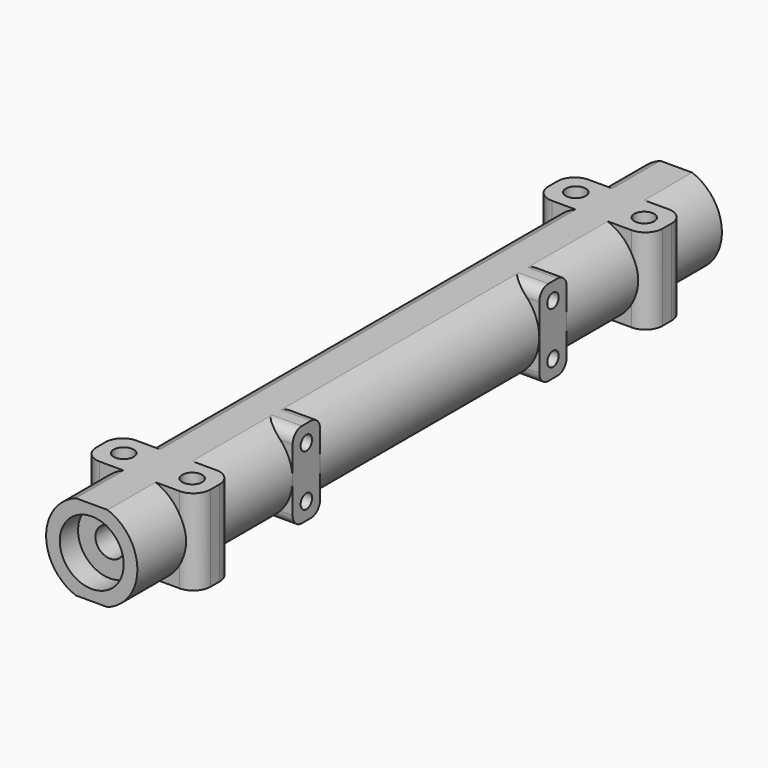
from build123d import *

# Parameters (mm, degrees)
CYLINDER148_R     = 1.5
CYLINDER148_DEPTH = 6
BOX014_W          = 20
BOX014_H          = 128
BOX014_DEPTH      = 1
BOX013_W          = 20
BOX013_H          = 128
BOX013_DEPTH      = 1
CYLINDER149_R     = 2.8
CYLINDER149_DEPTH = 25
CYLINDER150_R     = 2.8
CYLINDER150_DEPTH = 25
CYLINDER121_R     = 1.75
CYLINDER121_DEPTH = 15
CYLINDER120_R     = 1.75
CYLINDER120_DEPTH = 15
CYLINDER140_R     = 1.75
CYLINDER140_DEPTH = 15
CYLINDER141_R     = 1.75
CYLINDER141_DEPTH = 15
CYLINDER151_R     = 1.25
CYLINDER151_DEPTH = 10
CYLINDER152_R     = 1.25
CYLINDER152_DEPTH = 10
CYLINDER153_R     = 1.25
CYLINDER153_DEPTH = 10
CYLINDER154_R     = 1.25
CYLINDER154_DEPTH = 10
CYLINDER144_R     = 5.6
CYLINDER144_DEPTH = 4
CYLINDER145_R     = 5.6
CYLINDER145_DEPTH = 4
CYLINDER143_R     = 2.55
CYLINDER143_DEPTH = 128
BOX015_W          = 5.5
BOX015_H          = 6
BOX015_DEPTH      = 15
BOX016_W          = 5.5
BOX016_H          = 6
BOX016_DEPTH      = 15
FILLET009_R       = 2
BOX012_W          = 20
BOX012_H          = 8
BOX012_DEPTH      = 15
FILLET008_R       = 3
BOX011_W          = 20
BOX011_H          = 8
BOX011_DEPTH      = 15
FILLET007_R       = 3
CYLINDER142_R     = 8
CYLINDER142_DEPTH = 128


with BuildPart() as cylinder148:
    # Cylinder148 → Cylinder148 (new body)
    with BuildSketch(Plane.XY.offset(-7.5)):
        Circle(CYLINDER148_R)
    extrude(amount=CYLINDER148_DEPTH)


with BuildPart() as cube003:
    # Box014 → Box014 (new body)
    with BuildSketch(Plane(origin=(-10, -64, 7.5), x_dir=(1, 0, 0), z_dir=(0, 0, 1))):
        with Locations((10, 64)):
            Rectangle(BOX014_W, BOX014_H)
    extrude(amount=BOX014_DEPTH)


with BuildPart() as fusion127:
    # Box013 → Box013 (new body)
    with BuildSketch(Plane(origin=(-10, -64, -8.5), x_dir=(1, 0, 0), z_dir=(0, 0, 1))):
        with Locations((10, 64)):
            Rectangle(BOX013_W, BOX013_H)
    extrude(amount=BOX013_DEPTH)

    # Fusion127: union Cube003
    add(cube003.part)


with BuildPart() as cylinder149:
    # Cylinder149 → Cylinder149 (new body)
    with BuildSketch(Plane(origin=(0, -30, 0), x_dir=(1, 0, 0), z_dir=(0, 1, 0))):
        Circle(CYLINDER149_R)
    extrude(amount=CYLINDER149_DEPTH)


with BuildPart() as fusion128:
    # Cylinder150 → Cylinder150 (new body)
    with BuildSketch(Plane(origin=(0, 5, 0), x_dir=(1, 0, 0), z_dir=(0, 1, 0))):
        Circle(CYLINDER150_R)
    extrude(amount=CYLINDER150_DEPTH)

    # Fusion128: union Cylinder149
    add(cylinder149.part)


with BuildPart() as cylinder121:
    # Cylinder121 → Cylinder121 (new body)
    with BuildSketch(Plane(origin=(13.5, -49.5, 13), x_dir=(1, 0, 0), z_dir=(0, 0, 1))):
        Circle(CYLINDER121_R)
    extrude(amount=CYLINDER121_DEPTH)


with BuildPart() as fusion121:
    # Cylinder120 → Cylinder120 (new body)
    with BuildSketch(Plane(origin=(13.5, 49.5, 13), x_dir=(1, 0, 0), z_dir=(0, 0, 1))):
        Circle(CYLINDER120_R)
    extrude(amount=CYLINDER120_DEPTH)

    # Fusion121: union Cylinder121
    add(cylinder121.part)


with BuildPart() as cylinder140:
    # Cylinder140 → Cylinder140 (new body)
    with BuildSketch(Plane(origin=(13.5, -49.5, 13), x_dir=(1, 0, 0), z_dir=(0, 0, 1))):
        Circle(CYLINDER140_R)
    extrude(amount=CYLINDER140_DEPTH)


with BuildPart() as fusion123:
    # Cylinder141 → Cylinder141 (new body)
    with BuildSketch(Plane(origin=(13.5, 49.5, 13), x_dir=(1, 0, 0), z_dir=(0, 0, 1))):
        Circle(CYLINDER141_R)
    extrude(amount=CYLINDER141_DEPTH)

    # Fusion122: union Cylinder140
    add(cylinder140.part)


with BuildPart() as fusion123_1:
    # Fusion122 placement: moved
    add(fusion123.part.moved(Location((-12, 0, 0))))

    # Fusion123: union Fusion121
    add(fusion121.part)


with BuildPart() as fusion123_2:
    # Fusion123 placement: moved
    add(fusion123_1.part.moved(Location((-7.5, 0, -20.5))))


with BuildPart() as cylinder151:
    # Cylinder151 → Cylinder151 (new body)
    with BuildSketch(Plane(origin=(0, -27, 4.5), x_dir=(0, 0, -1), z_dir=(1, 0, 0))):
        Circle(CYLINDER151_R)
    extrude(amount=CYLINDER151_DEPTH)


with BuildPart() as fusion131:
    # Cylinder152 → Cylinder152 (new body)
    with BuildSketch(Plane(origin=(0, -27, -4.5), x_dir=(0, 0, -1), z_dir=(1, 0, 0))):
        Circle(CYLINDER152_R)
    extrude(amount=CYLINDER152_DEPTH)

    # Fusion131: union Cylinder151
    add(cylinder151.part)


with BuildPart() as cylinder153:
    # Cylinder153 → Cylinder153 (new body)
    with BuildSketch(Plane(origin=(0, -27, 4.5), x_dir=(0, 0, -1), z_dir=(1, 0, 0))):
        Circle(CYLINDER153_R)
    extrude(amount=CYLINDER153_DEPTH)


with BuildPart() as fusion133:
    # Cylinder154 → Cylinder154 (new body)
    with BuildSketch(Plane(origin=(0, -27, -4.5), x_dir=(0, 0, -1), z_dir=(1, 0, 0))):
        Circle(CYLINDER154_R)
    extrude(amount=CYLINDER154_DEPTH)

    # Fusion132: union Cylinder153
    add(cylinder153.part)


with BuildPart() as fusion133_1:
    # Fusion132 placement: moved
    add(fusion133.part.moved(Location((0, 54, 0))))

    # Fusion133: union Fusion131
    add(fusion131.part)


with BuildPart() as fusion133_2:
    # Fusion133 placement: moved
    add(fusion133_1.part.moved(Location((-2, 0, 0))))


with BuildPart() as cylinder144:
    # Cylinder144 → Cylinder144 (new body)
    with BuildSketch(Plane(origin=(0, -64, 0), x_dir=(1, 0, 0), z_dir=(0, 1, 0))):
        Circle(CYLINDER144_R)
    extrude(amount=CYLINDER144_DEPTH)


with BuildPart() as fusion124:
    # Cylinder145 → Cylinder145 (new body)
    with BuildSketch(Plane(origin=(0, 60, 0), x_dir=(1, 0, 0), z_dir=(0, 1, 0))):
        Circle(CYLINDER145_R)
    extrude(amount=CYLINDER145_DEPTH)

    # Fusion124: union Cylinder144
    add(cylinder144.part)


with BuildPart() as fusion125:
    # Cylinder143 → Cylinder143 (new body)
    with BuildSketch(Plane(origin=(0, -64, 0), x_dir=(1, 0, 0), z_dir=(0, 1, 0))):
        Circle(CYLINDER143_R)
    extrude(amount=CYLINDER143_DEPTH)

    # Fusion125: union Fusion124
    add(fusion124.part)


with BuildPart() as cube004:
    # Box015 → Box015 (new body)
    with BuildSketch(Plane(origin=(2.5, -30, -7.5), x_dir=(1, 0, 0), z_dir=(0, 0, 1))):
        with Locations((2.75, 3)):
            Rectangle(BOX015_W, BOX015_H)
    extrude(amount=BOX015_DEPTH)


with BuildPart() as fillet009:
    # Box016 → Box016 (new body)
    with BuildSketch(Plane(origin=(2.5, 24, -7.5), x_dir=(1, 0, 0), z_dir=(0, 0, 1))):
        with Locations((2.75, 3)):
            Rectangle(BOX016_W, BOX016_H)
    extrude(amount=BOX016_DEPTH)

    # Fusion129: union Cube004
    add(cube004.part)

    # Fillet009
    fillet009_edges = [fillet009.edges().sort_by_distance(p)[0] for p in [
        (5.25, 24, -7.5),
        (5.25, 24, 7.5),
        (5.25, 30, -7.5),
        (5.25, 30, 7.5),
        (5.25, -30, -7.5),
        (5.25, -30, 7.5),
        (5.25, -24, -7.5),
        (5.25, -24, 7.5),
    ]]
    fillet(fillet009_edges, radius=FILLET009_R)


with BuildPart() as fillet008:
    # Box012 → Box012 (new body)
    with BuildSketch(Plane(origin=(-10, -53.5, -7.5), x_dir=(1, 0, 0), z_dir=(0, 0, 1))):
        with Locations((10, 4)):
            Rectangle(BOX012_W, BOX012_H)
    extrude(amount=BOX012_DEPTH)

    # Fillet008
    fillet008_edges = [fillet008.edges().sort_by_distance(p)[0] for p in [
        (-10, -53.5, 0),
        (-10, -45.5, 0),
        (10, -53.5, 0),
        (10, -45.5, 0),
    ]]
    fillet(fillet008_edges, radius=FILLET008_R)


with BuildPart() as fillet007:
    # Box011 → Box011 (new body)
    with BuildSketch(Plane(origin=(-10, -53.5, -7.5), x_dir=(1, 0, 0), z_dir=(0, 0, 1))):
        with Locations((10, 4)):
            Rectangle(BOX011_W, BOX011_H)
    extrude(amount=BOX011_DEPTH)

    # Fillet007
    fillet007_edges = [fillet007.edges().sort_by_distance(p)[0] for p in [
        (-10, -53.5, 0),
        (-10, -45.5, 0),
        (10, -53.5, 0),
        (10, -45.5, 0),
    ]]
    fillet(fillet007_edges, radius=FILLET007_R)


with BuildPart() as fillet007_1:
    # Fillet007 placement: moved
    add(fillet007.part.moved(Location((0, 99, 0))))


with BuildPart() as axle_wide:
    # Cylinder142 → Cylinder142 (new body)
    with BuildSketch(Plane(origin=(0, -64, 0), x_dir=(1, 0, 0), z_dir=(0, 1, 0))):
        Circle(CYLINDER142_R)
    extrude(amount=CYLINDER142_DEPTH)

    # Fusion126: union Fillet008, Fillet007
    add(fillet008.part)
    add(fillet007_1.part)

    # Fusion130: union Fillet009
    add(fillet009.part)

    # Cut045: cut Fusion125
    add(fusion125.part, mode=Mode.SUBTRACT)

    # Cut046: cut Fusion133
    add(fusion133_2.part, mode=Mode.SUBTRACT)

    # Cut047: cut Fusion123
    add(fusion123_2.part, mode=Mode.SUBTRACT)

    # Cut048: cut Fusion128
    add(fusion128.part, mode=Mode.SUBTRACT)

    # Cut049: cut Fusion127
    add(fusion127.part, mode=Mode.SUBTRACT)

    # Cut050: cut Cylinder148
    add(cylinder148.part, mode=Mode.SUBTRACT)


solid = axle_wide.part
